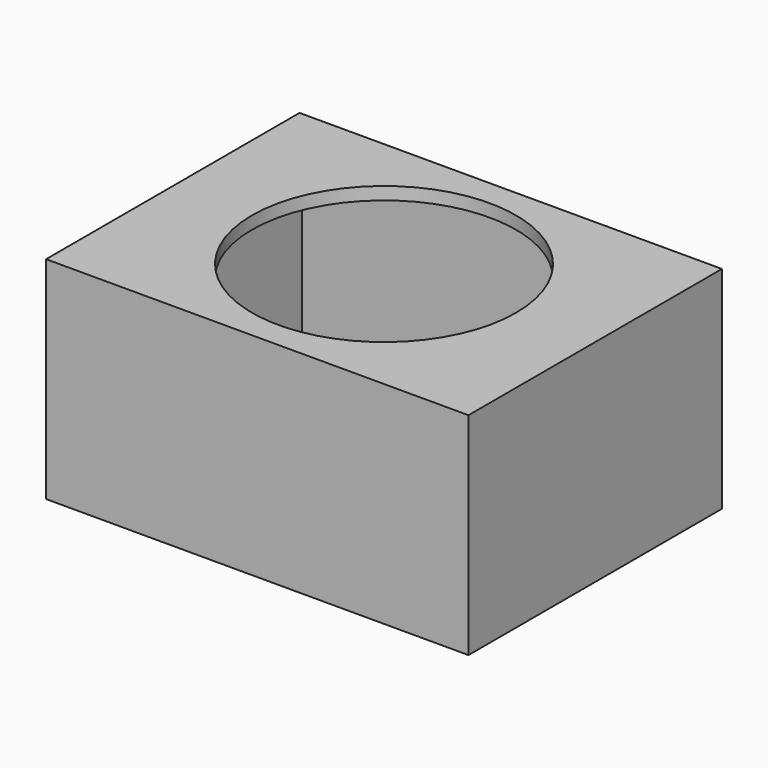
from build123d import *

# Parameters (mm, degrees)
F0_W     = 40
F0_H     = 30
F1_DEPTH = 20
F2_T     = -1.2
F4_D     = 25


with BuildPart() as f1:
    # F0 (on Top) → F1 (new body)
    with BuildSketch(Plane.XY):
        with Locations((20, -15)):
            Rectangle(F0_W, F0_H)
    extrude(amount=F1_DEPTH)

    # F2
    f2_openings = [f1.faces().sort_by_distance(p)[0] for p in [
        (20, -15, 0),
    ]]
    offset(amount=F2_T, openings=f2_openings)

    # F4 (through all)
    with Locations(Plane.XY.offset(20)):
        with Locations((20, -15)):
            Hole(F4_D / 2)


solid = f1.part
